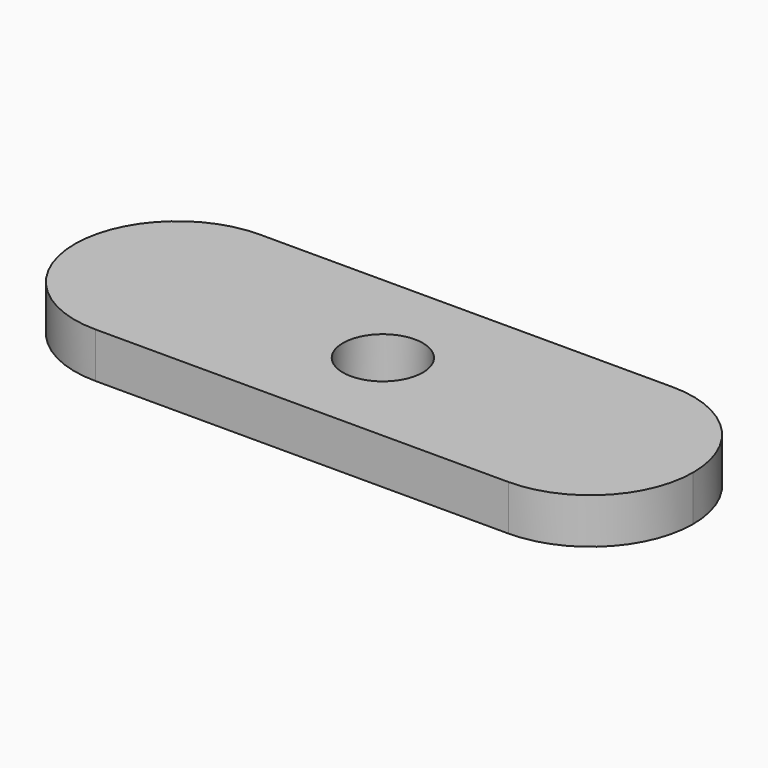
from build123d import *

# Parameters (mm, degrees)
F0_R     = 5.588
F1_DEPTH = 6.35


with BuildPart() as f1:
    # F0 (on Top) → F1 (new body)
    with BuildSketch(Plane.XY):
        with BuildLine():
            Line((29.0390886366, 10.9855), (29.0390886366, 14.3717424944))
            ThreePointArc((29.0390886366, 14.3717424944), (14.6673461422, 0), (29.0390886366, -14.3717424944))
            Line((29.0390886366, -14.3717424944), (29.0390886366, -10.9855))
            ThreePointArc((29.0390886366, -10.9855), (18.0535886366, 0), (29.0390886366, 10.9855))
        make_face()
        with BuildLine():
            ThreePointArc((40.0245886366, 0), (36.8070101814, 7.7679215447), (29.0390886366, 10.9855))
            Line((29.0390886366, 10.9855), (29.0390886366, -10.9855))
            ThreePointArc((29.0390886366, -10.9855), (36.8070101814, -7.7679215447), (40.0245886366, 0))
        make_face()
        with BuildLine():
            ThreePointArc((43.410831131, 0), (39.2014452119, 10.1623565753), (29.0390886366, 14.3717424944))
            Line((29.0390886366, 14.3717424944), (29.0390886366, 10.9855))
            ThreePointArc((29.0390886366, 10.9855), (36.8070101814, 7.7679215447), (40.0245886366, 0))
            ThreePointArc((40.0245886366, 0), (36.8070101814, -7.7679215447), (29.0390886366, -10.9855))
            Line((29.0390886366, -10.9855), (29.0390886366, -14.3717424944))
            ThreePointArc((29.0390886366, -14.3717424944), (39.2014452119, -10.1623565753), (43.410831131, 0))
        make_face()
        with BuildLine():
            Line((29.0390886366, -10.9855), (29.0390886366, 10.9855))
            ThreePointArc((29.0390886366, 10.9855), (18.0535886366, 0), (29.0390886366, -10.9855))
        make_face()
        with BuildLine():
            ThreePointArc((-14.3479490653, 0), (-18.5573349844, 10.1623565753), (-28.7196915597, 14.3717424944))
            Line((-28.7196915597, 14.3717424944), (-28.7196915597, 10.9855))
            ThreePointArc((-28.7196915597, 10.9855), (-20.9517700149, 7.7679215447), (-17.7341915597, 0))
            ThreePointArc((-17.7341915597, 0), (-20.9517700149, -7.7679215447), (-28.7196915597, -10.9855))
            Line((-28.7196915597, -10.9855), (-28.7196915597, -14.3717424944))
            ThreePointArc((-28.7196915597, -14.3717424944), (-18.5573349844, -10.1623565753), (-14.3479490653, 0))
        make_face()
        with BuildLine():
            Line((-28.7196915597, -10.9855), (-28.7196915597, 10.9855))
            ThreePointArc((-28.7196915597, 10.9855), (-39.7051915597, 0), (-28.7196915597, -10.9855))
        make_face()
        with BuildLine():
            Line((-28.7196915597, 10.9855), (-28.7196915597, 14.3717424944))
            ThreePointArc((-28.7196915597, 14.3717424944), (-43.0914340541, 0), (-28.7196915597, -14.3717424944))
            Line((-28.7196915597, -14.3717424944), (-28.7196915597, -10.9855))
            ThreePointArc((-28.7196915597, -10.9855), (-39.7051915597, 0), (-28.7196915597, 10.9855))
        make_face()
        with BuildLine():
            ThreePointArc((-17.7341915597, 0), (-20.9517700149, 7.7679215447), (-28.7196915597, 10.9855))
            Line((-28.7196915597, 10.9855), (-28.7196915597, -10.9855))
            ThreePointArc((-28.7196915597, -10.9855), (-20.9517700149, -7.7679215447), (-17.7341915597, 0))
        make_face()
        with BuildLine():
            Line((29.0390886366, 14.3717424944), (-28.7196915597, 14.3717424944))
            ThreePointArc((-28.7196915597, 14.3717424944), (-18.5573349844, 10.1623565753), (-14.3479490653, 0))
            ThreePointArc((-14.3479490653, 0), (-18.5573349844, -10.1623565753), (-28.7196915597, -14.3717424944))
            Line((-28.7196915597, -14.3717424944), (29.0390886366, -14.3717424944))
            ThreePointArc((29.0390886366, -14.3717424944), (14.6673461422, 0), (29.0390886366, 14.3717424944))
        make_face()
        Circle(F0_R, mode=Mode.SUBTRACT)
    extrude(amount=F1_DEPTH)


solid = f1.part
